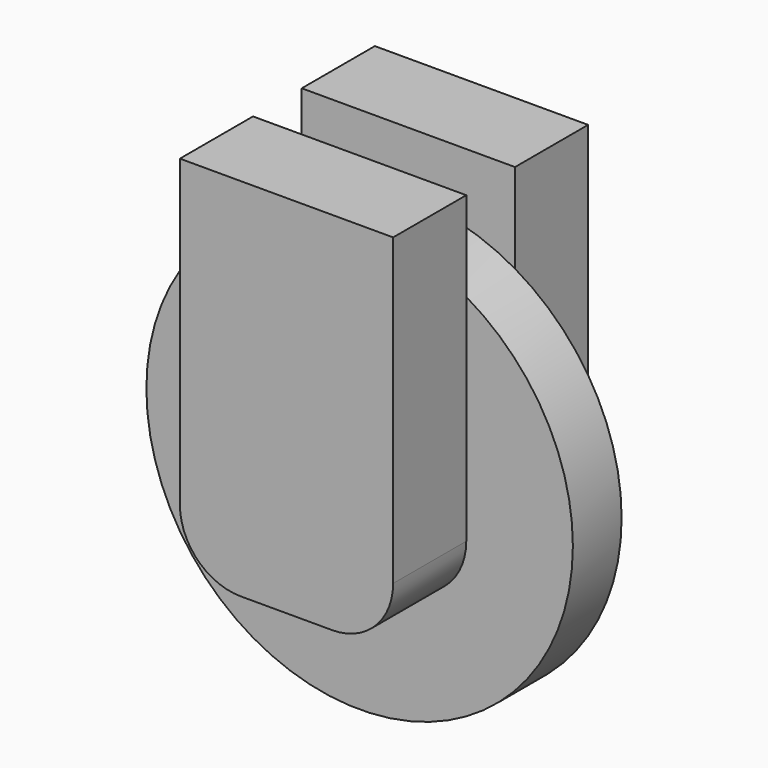
from build123d import *

# Parameters (mm, degrees)
F1_DEPTH = 38.1
F2_R     = 88.9
F3_DEPTH = 25.4
F5_DEPTH = 38.1


with BuildPart() as f1:
    # F0 (on Front) → F1 (new body)
    with BuildSketch(Plane.XZ):
        with BuildLine():
            Line((88.9, 0), (0, 0))
            Line((0, 0), (0, -127))
            ThreePointArc((0, -127), (7.4394877579, -144.9605122421), (25.4, -152.4))
            Line((25.4, -152.4), (63.5, -152.4))
            ThreePointArc((63.5, -152.4), (81.4605122421, -144.9605122421), (88.9, -127))
            Line((88.9, -127), (88.9, 0))
        make_face()
    extrude(amount=F1_DEPTH)

    # F2 (on face) → F3 (join)
    with BuildSketch(Plane.XZ.offset(38.1)):
        with Locations((44.45, -114.3)):
            Circle(F2_R)
    extrude(amount=F3_DEPTH)

    # F4 (on face) → F5 (join)
    with BuildSketch(Plane.XZ.offset(63.5)):
        with BuildLine():
            Line((88.9, 0), (0, 0))
            Line((0, 0), (0, -127))
            ThreePointArc((0, -127), (7.4394877579, -144.9605122421), (25.4, -152.4))
            Line((25.4, -152.4), (63.5, -152.4))
            ThreePointArc((63.5, -152.4), (81.4605122421, -144.9605122421), (88.9, -127))
            Line((88.9, -127), (88.9, 0))
        make_face()
    extrude(amount=F5_DEPTH)


solid = f1.part
